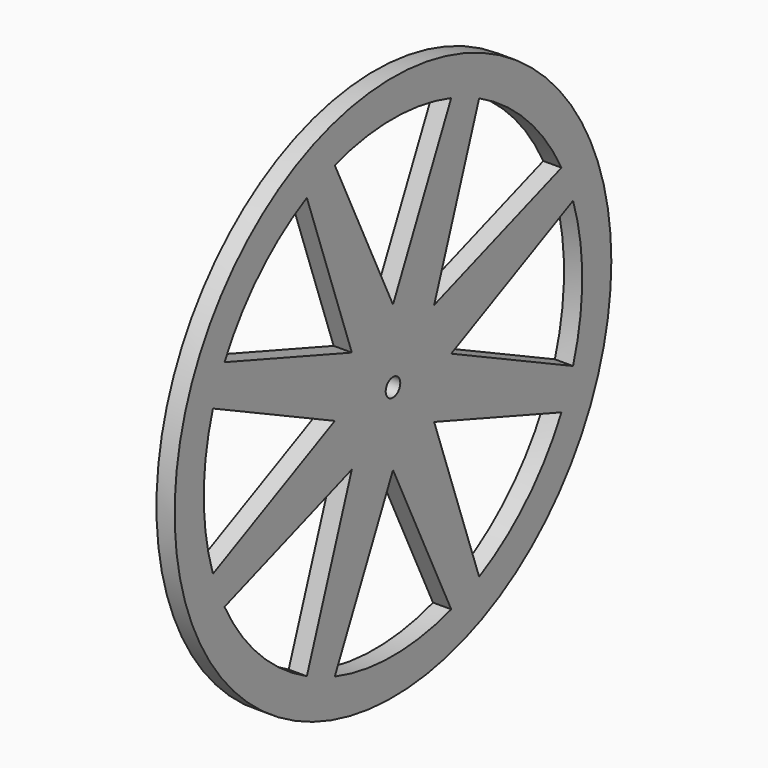
from build123d import *

# Parameters (mm, degrees)
F0_R     = 47.625
F0_R_2   = 1.5875
F1_DEPTH = 3.175


with BuildPart() as f1:
    # F0 (on Right) → F1 (new body)
    with BuildSketch(Plane.YZ):
        Circle(F0_R)
        with BuildLine():
            Line((-8.980256, -8.980256), (-18.789652, -36.750165))
            ThreePointArc((-18.789652, -36.750165), (-29.185832, -29.185832), (-36.750165, -18.789652))
            Line((-36.750165, -18.789652), (-8.980256, -8.980256))
        make_face(mode=Mode.SUBTRACT)
        with BuildLine():
            Line((0, -12.7), (12.7, -39.272581))
            ThreePointArc((12.7, -39.272581), (0, -41.275), (-12.7, -39.272581))
            Line((-12.7, -39.272581), (0, -12.7))
        make_face(mode=Mode.SUBTRACT)
        with BuildLine():
            Line((8.980256, -8.980256), (36.750165, -18.789652))
            ThreePointArc((36.750165, -18.789652), (29.185832, -29.185832), (18.789652, -36.750165))
            Line((18.789652, -36.750165), (8.980256, -8.980256))
        make_face(mode=Mode.SUBTRACT)
        with BuildLine():
            Line((-12.7, 0), (-39.272581, -12.7))
            ThreePointArc((-39.272581, -12.7), (-41.275, 0), (-39.272581, 12.7))
            Line((-39.272581, 12.7), (-12.7, 0))
        make_face(mode=Mode.SUBTRACT)
        with BuildLine():
            Line((-8.980256, 8.980256), (-36.750165, 18.789652))
            ThreePointArc((-36.750165, 18.789652), (-29.185832, 29.185832), (-18.789652, 36.750165))
            Line((-18.789652, 36.750165), (-8.980256, 8.980256))
        make_face(mode=Mode.SUBTRACT)
        Circle(F0_R_2, mode=Mode.SUBTRACT)
        with BuildLine():
            Line((8.980256, 8.980256), (18.789652, 36.750165))
            ThreePointArc((18.789652, 36.750165), (29.185832, 29.185832), (36.750165, 18.789652))
            Line((36.750165, 18.789652), (8.980256, 8.980256))
        make_face(mode=Mode.SUBTRACT)
        with BuildLine():
            Line((12.7, 0), (39.272581, 12.7))
            ThreePointArc((39.272581, 12.7), (41.275, 0), (39.272581, -12.7))
            Line((39.272581, -12.7), (12.7, 0))
        make_face(mode=Mode.SUBTRACT)
        with BuildLine():
            Line((0, 12.7), (-12.7, 39.272581))
            ThreePointArc((-12.7, 39.272581), (0, 41.275), (12.7, 39.272581))
            Line((12.7, 39.272581), (0, 12.7))
        make_face(mode=Mode.SUBTRACT)
    extrude(amount=F1_DEPTH)


solid = f1.part
